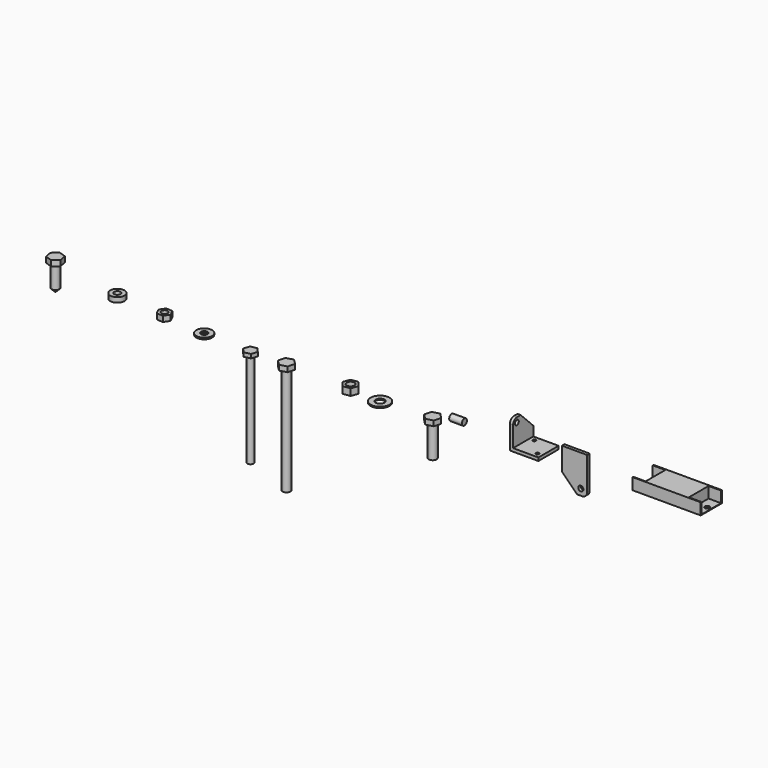
from build123d import *

# Parameters (mm, degrees)
F0_R      = 3.175
F1_DEPTH  = 12.7
F2_R      = 3.96875
F3_DEPTH  = 31.75
F4_R      = 3.96875
F5_DEPTH  = 5.159375
F6_R      = 9.525
F6_R_2    = 4.3688
F7_DEPTH  = 1.27
F8_R      = 3.96875
F9_DEPTH  = 6.746875
F11_DEPTH = 25.4
F12_R     = 1.5875
F13_DEPTH = 25.4
F14_R     = 2.38125
F15_DEPTH = 25.4
F16_R     = 5.08
F17_SIZE  = 15.875
F18_W     = 25.4
F18_H     = 38.1
F19_DEPTH = 3.175
F20_R     = 2.5683945877
F21_DEPTH = 25.4
F22_R     = 5.08
F23_SIZE  = 15.24
F24_R     = 3.96875
F25_DEPTH = 107.95
F27_DEPTH = 5.159375
F28_R     = 3.175
F29_DEPTH = 95.25
F30_R     = 3.175
F31_DEPTH = 3.96875
F32_R     = 7.9375
F32_R_2   = 3.302
F33_DEPTH = 1.524
F34_R     = 3.175
F35_DEPTH = 5.55625
F36_R     = 7.14375
F36_R_2   = 3.175
F37_DEPTH = 4.9022
F38_W     = 68.659375
F38_H     = 26.590625
F39_DEPTH = 0.508
F40_W     = 43.4119105339
F40_H     = 24.6553132311
F41_DEPTH = 11.1125
F42_R     = 2.4384
F43_DEPTH = 25.4
F44_R     = 3.96875
F45_DEPTH = 25.4
F47_DEPTH = 5.5626
F48_SIZE  = 3.302


with BuildPart() as f1:
    # F0 (on Right) → F1 (new body)
    with BuildSketch(Plane.YZ):
        with Locations((0, 10.3429089811)):
            Circle(F0_R)
    extrude(amount=F1_DEPTH)


with BuildPart() as f3:
    # F2 (on Top) → F3 (new body)
    with BuildSketch(Plane.XY):
        with Locations((-19.1004131994, 0)):
            Circle(F2_R)
    extrude(amount=-F3_DEPTH)

    # F4 (on face) → F5 (join)
    with BuildSketch(Plane.XY):
        Polygon((-12.0056577609, 1.8514260994), (-17.1564175154, 7.0699514931), (-24.2511729539, 5.2185253937), (-26.1951686378, -1.8514260994), (-21.0444088833, -7.0699514931), (-13.9496534448, -5.2185253937), align=None)
        with Locations((-19.1004131994, 0)):
            Circle(F4_R, mode=Mode.SUBTRACT)
        with Locations((-19.1004131994, 0)):
            Circle(F4_R)
    extrude(amount=F5_DEPTH)


with BuildPart() as f7:
    # F6 (on Top) → F7 (new body)
    with BuildSketch(Plane.XY):
        with Locations((-71.952196846, 0)):
            Circle(F6_R)
        with Locations((-71.952196846, 0)):
            Circle(F6_R_2, mode=Mode.SUBTRACT)
    extrude(amount=F7_DEPTH)


with BuildPart() as f9:
    # F8 (on Top) → F9 (new body)
    with BuildSketch(Plane.XY):
        Polygon((-94.3512425048, 1.1040145422), (-98.9317258921, 6.8296154078), (-106.1804833873, 5.7256008656), (-108.8487574952, -1.1040145422), (-104.2682741079, -6.8296154078), (-97.0195166127, -5.7256008656), align=None)
        with Locations((-101.6, 0)):
            Circle(F8_R, mode=Mode.SUBTRACT)
    extrude(amount=F9_DEPTH)


with BuildPart() as f11:
    # F10 (on Front) → F11 (new body)
    with BuildSketch(Plane.XZ):
        Polygon((61.6088200091, 28.575), (58.4338200091, 28.575), (58.4338200091, 0), (87.0088200091, 0), (87.0088200091, 3.175), (61.6088200091, 3.175), align=None)
    extrude(amount=-F11_DEPTH)

    # F12 (on face) → F13 (cut)
    with BuildSketch(Plane.XY.offset(3.175)):
        with Locations((66.3713200091, 20.6375)):
            Circle(F12_R)
        with Locations((82.2463200091, 4.7625)):
            Circle(F12_R)
    extrude(amount=-F13_DEPTH, mode=Mode.SUBTRACT)

    # F14 (on face) → F15 (cut)
    with BuildSketch(Plane(origin=(58.4338200091, 0, 0), x_dir=(0, -1, 0), z_dir=(-1, 0, 0))):
        with Locations((-4.7625, 23.8125)):
            Circle(F14_R)
    extrude(amount=-F15_DEPTH, mode=Mode.SUBTRACT)

    # F16
    f16_edges = [f11.edges().sort_by_distance(p)[0] for p in [
        (60.02132, 0, 28.575),
    ]]
    fillet(f16_edges, radius=F16_R)

    # F17
    f17_edges = [f11.edges().sort_by_distance(p)[0] for p in [
        (60.02132, 25.4, 28.575),
    ]]
    chamfer(f17_edges, length=F17_SIZE)


with BuildPart() as f19:
    # F18 (on Front) → F19 (new body)
    with BuildSketch(Plane.XZ):
        with Locations((125.8082725108, 4.3551529924)):
            Rectangle(F18_W, F18_H)
    extrude(amount=F19_DEPTH)

    # F20 (on face) → F21 (cut)
    with BuildSketch(Plane.XZ.offset(3.175)):
        with Locations((132.1582725108, -8.3448470076)):
            Circle(F20_R)
    extrude(amount=-F21_DEPTH, mode=Mode.SUBTRACT)

    # F22
    f22_edges = [f19.edges().sort_by_distance(p)[0] for p in [
        (138.508273, -1.5875, -14.694847),
    ]]
    fillet(f22_edges, radius=F22_R)

    # F23
    f23_edges = [f19.edges().sort_by_distance(p)[0] for p in [
        (113.108273, -1.5875, -14.694847),
    ]]
    chamfer(f23_edges, length=F23_SIZE)


with BuildPart() as f25:
    # F24 (on Top) → F25 (new body)
    with BuildSketch(Plane.XY):
        with Locations((-165.8938703613, 0)):
            Circle(F24_R)
    extrude(amount=-F25_DEPTH)

    # F26 (on face) → F27 (join)
    with BuildSketch(Plane.XY):
        Polygon((-158.8372776224, 1.991941829), (-164.0906462186, 7.1071594906), (-171.1472389575, 5.1152176616), (-172.9504631003, -1.991941829), (-167.6970945041, -7.1071594906), (-160.6405017651, -5.1152176616), align=None)
    extrude(amount=F27_DEPTH)


with BuildPart() as f29:
    # F28 (on Top) → F29 (new body)
    with BuildSketch(Plane.XY):
        with Locations((-202.0987113, 0)):
            Circle(F28_R)
    extrude(amount=-F29_DEPTH)

    # F30 (on face) → F31 (join)
    with BuildSketch(Plane.XY):
        Polygon((-195.8281537988, 1.357446392), (-200.1390156091, 6.1091852879), (-206.4095731104, 4.751738896), (-208.3692688012, -1.357446392), (-204.0584069909, -6.1091852879), (-197.7878494897, -4.751738896), align=None)
        with Locations((-202.0987113, 0)):
            Circle(F30_R, mode=Mode.SUBTRACT)
        with Locations((-202.0987113, 0)):
            Circle(F30_R)
    extrude(amount=F31_DEPTH)


with BuildPart() as f33:
    # F32 (on Top) → F33 (new body)
    with BuildSketch(Plane.XY):
        with Locations((-251.5862286091, 3.8080676459)):
            Circle(F32_R)
        with Locations((-251.5862286091, 3.8080676459)):
            Circle(F32_R_2, mode=Mode.SUBTRACT)
    extrude(amount=F33_DEPTH)


with BuildPart() as f35:
    # F34 (on Top) → F35 (new body)
    with BuildSketch(Plane.XY):
        Polygon((-286.8168066311, 5.7085133698), (-289.6860562956, 11.4469764433), (-296.0903359282, 11.8313648808), (-299.6253658963, 6.4772902447), (-296.7561162317, 0.7388271712), (-290.3518365991, 0.3544387338), align=None)
        with Locations((-293.2210862637, 6.0929018073)):
            Circle(F34_R, mode=Mode.SUBTRACT)
    extrude(amount=F35_DEPTH)


with BuildPart() as f37:
    # F36 (on Top) → F37 (new body)
    with BuildSketch(Plane.XY):
        with Locations((-343.1733250618, 9.3005169183)):
            Circle(F36_R)
        with Locations((-343.1733250618, 9.3005169183)):
            Circle(F36_R_2, mode=Mode.SUBTRACT)
    extrude(amount=F37_DEPTH)


with BuildPart() as f39:
    # F38 (on Top) → F39 (new body)
    with BuildSketch(Plane.XY):
        with Locations((209.8023176429, 20.6805164926)):
            Rectangle(F38_W, F38_H)
    extrude(amount=F39_DEPTH)

    # F40 (on face) → F41 (join)
    with BuildSketch(Plane.XY.offset(0.508)):
        Polygon((244.1320051429, 33.9758289926), (175.4726301429, 33.9758289926), (175.4726301429, 32.8791476786), (188.1580203772, 32.8791476786), (231.5699309111, 32.8791476786), (244.1320051429, 32.8791476786), align=None)
        with Locations((209.8639756441, 20.5514910631)):
            Rectangle(F40_W, F40_H)
        Polygon((231.5699309111, 8.2238344476), (188.1580203772, 8.2238344476), (175.4726301429, 8.2238344476), (175.4726301429, 7.3852039926), (244.1320051429, 7.3852039926), (244.1320051429, 8.2238344476), align=None)
    extrude(amount=F41_DEPTH)

    # F42 (on face) → F43 (cut)
    with BuildSketch(Plane(origin=(0, 0, 0), x_dir=(1, 0, 0), z_dir=(0, 0, -1))):
        with Locations((239.9632301429, -20.6805164926)):
            Circle(F42_R)
        with Locations((179.6382301429, -20.6805164926)):
            Circle(F42_R)
    extrude(amount=-F43_DEPTH, mode=Mode.SUBTRACT)


with BuildPart() as f45:
    # F44 (on Top) → F45 (new body)
    with BuildSketch(Plane.XY):
        with Locations((-419.122159481, 26.4737959951)):
            Circle(F44_R)
    extrude(amount=-F45_DEPTH)

    # F46 (on face) → F47 (join)
    with BuildSketch(Plane.XY):
        Polygon((-417.6219724877, 19.2965561135), (-412.1563939178, 24.1843761009), (-413.6565809112, 31.3616159826), (-420.6223464744, 33.6510358767), (-426.0879250442, 28.7632158893), (-424.5877380509, 21.5859760077), align=None)
    extrude(amount=F47_DEPTH)

    # F48
    f48_edges = [f45.edges().sort_by_distance(p)[0] for p in [
        (-423.090909, 26.473796, -25.4),
    ]]
    chamfer(f48_edges, length=F48_SIZE)


solid = Compound([f1.part, f3.part, f7.part, f9.part, f11.part, f19.part, f25.part, f29.part, f33.part, f35.part, f37.part, f39.part, f45.part])
